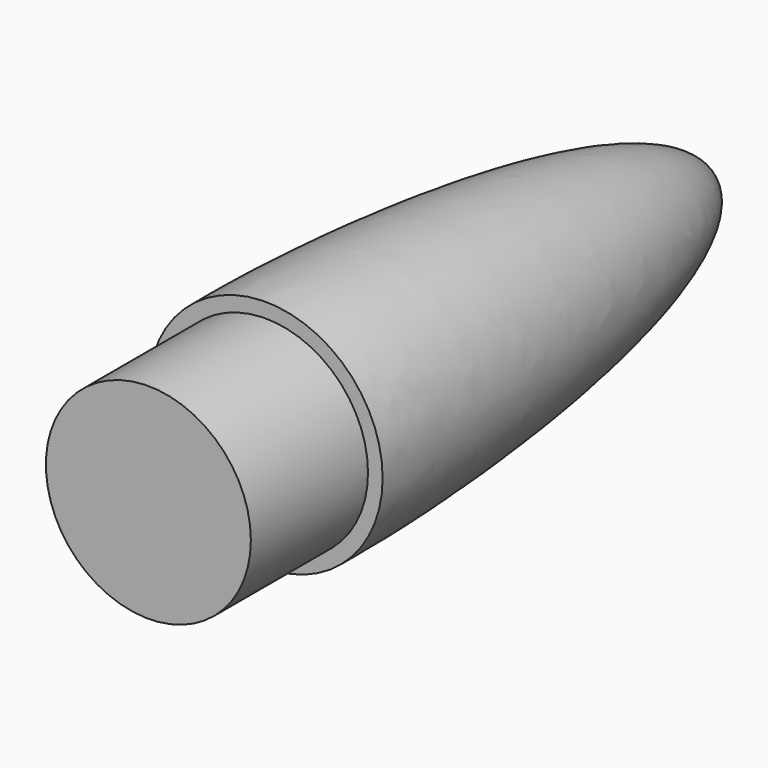
from build123d import *

# Parameters (mm, degrees)
F0_W   = 8.5
F0_H   = 20
F0_W_2 = 5.5
F0_H_2 = 45


with BuildPart() as f1:
    # F0 (on Top) → F1 (revolve)
    with BuildSketch(Plane.XY):
        with BuildLine():
            Line((0, 95), (0, 65))
            Line((0, 65), (5.5, 65))
            Line((5.5, 65), (5.5, 20))
            Line((5.5, 20), (14, 20))
            Line((14, 20), (16, 20))
            add(Edge.make_bspline(
                [(0, 95), (11.437606, 95.100096), (16.261564, 47.378998), (16, 20)],
                knots=[0, 0, 0, 0, 76.687678, 76.687678, 76.687678, 76.687678], degree=3))
        make_face()
        with Locations((9.75, 10)):
            Rectangle(F0_W, F0_H)
        with Locations((2.75, 42.5)):
            Rectangle(F0_W_2, F0_H_2)
        with Locations((2.75, 10)):
            Rectangle(F0_W_2, F0_H)
    revolve(axis=Axis((0, 57.5, 0), (0, 1, 0)))


solid = f1.part
